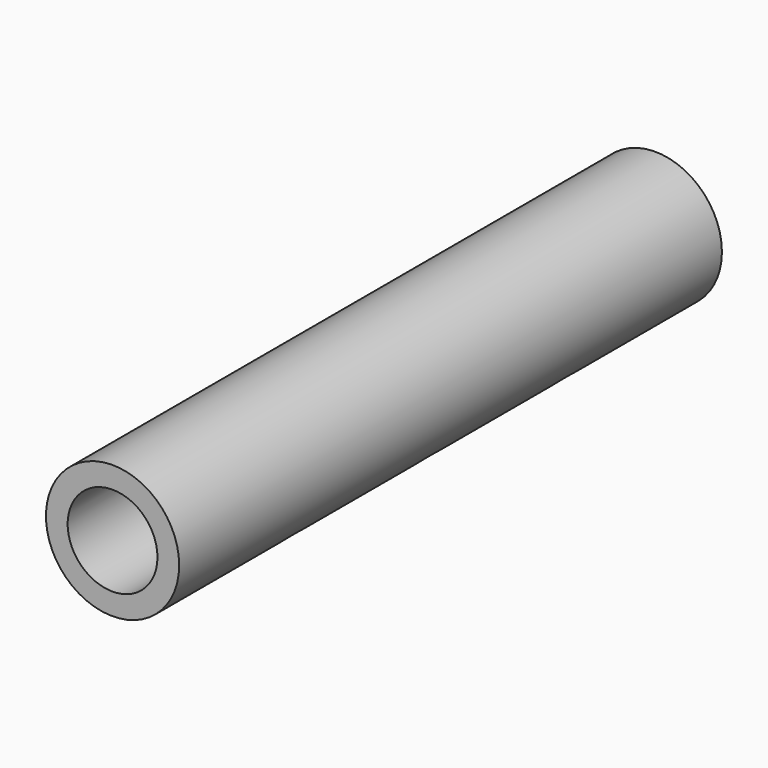
from build123d import *

# Parameters (mm, degrees)
F0_R     = 6.858
F0_R_2   = 4.6228
F1_DEPTH = 69.85
F2_R     = 4.7625
F3_DEPTH = 25.4


with BuildPart() as f1:
    # F0 (on Front) → F1 (new body)
    with BuildSketch(Plane.XZ):
        Circle(F0_R)
        Circle(F0_R_2, mode=Mode.SUBTRACT)
    extrude(amount=F1_DEPTH)

    # F2 (on Top) → F3 (cut)
    with BuildSketch(Plane.XY):
        with Locations((0, -17.4625)):
            Circle(F2_R)
        with Locations((0, -34.925)):
            Circle(F2_R)
        with Locations((0, -52.3875)):
            Circle(F2_R)
    extrude(amount=-F3_DEPTH, mode=Mode.SUBTRACT)


solid = f1.part
